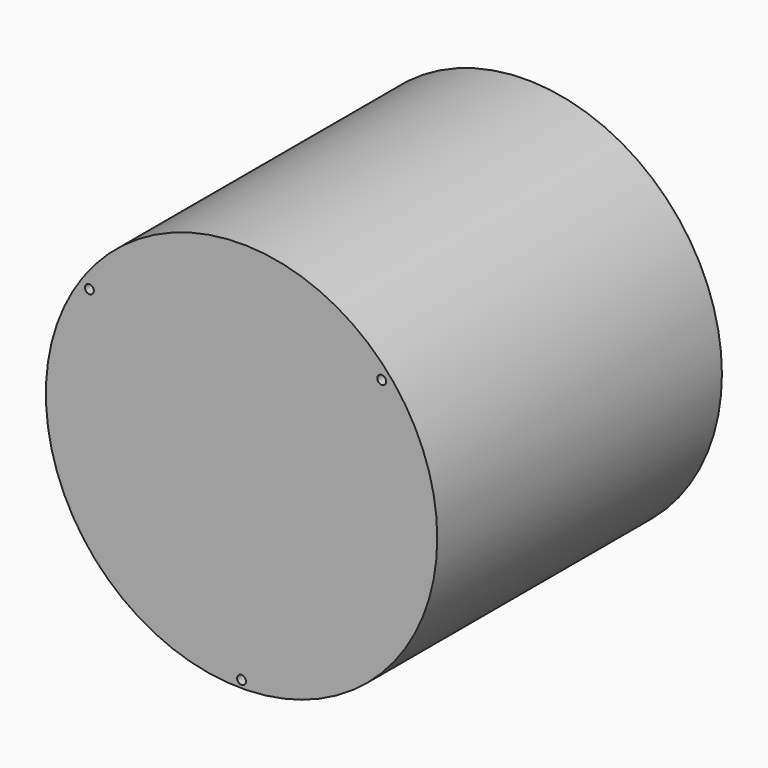
from build123d import *

# Parameters (mm, degrees)
F0_R     = 33
F0_R_2   = 0.75
F0_R_3   = 30
F1_DEPTH = 60
F2_DEPTH = 3
F3_T     = -2.5


with BuildPart() as f1:
    # F0 (on Front) → F1 (new body)
    with BuildSketch(Plane.XZ):
        Circle(F0_R)
        with Locations((0, -31.744543)):
            Circle(F0_R_2, mode=Mode.SUBTRACT)
        with Locations((-25.660656, 17.90996)):
            Circle(F0_R_2, mode=Mode.SUBTRACT)
        Circle(F0_R_3, mode=Mode.SUBTRACT)
        with Locations((23.63484, 20.465862)):
            Circle(F0_R_2, mode=Mode.SUBTRACT)
        Circle(F0_R_3)
    extrude(amount=F1_DEPTH)

    # F0 (on Front) → F2 (join)
    with BuildSketch(Plane.XZ):
        Circle(F0_R)
        with Locations((0, -31.744543)):
            Circle(F0_R_2, mode=Mode.SUBTRACT)
        with Locations((-25.660656, 17.90996)):
            Circle(F0_R_2, mode=Mode.SUBTRACT)
        Circle(F0_R_3, mode=Mode.SUBTRACT)
        with Locations((23.63484, 20.465862)):
            Circle(F0_R_2, mode=Mode.SUBTRACT)
    extrude(amount=F2_DEPTH)

    # F3
    f3_openings = [f1.faces().sort_by_distance(p)[0] for p in [
        (0.001048, 0, -0.003431),
    ]]
    offset(amount=F3_T, openings=f3_openings)


solid = f1.part
